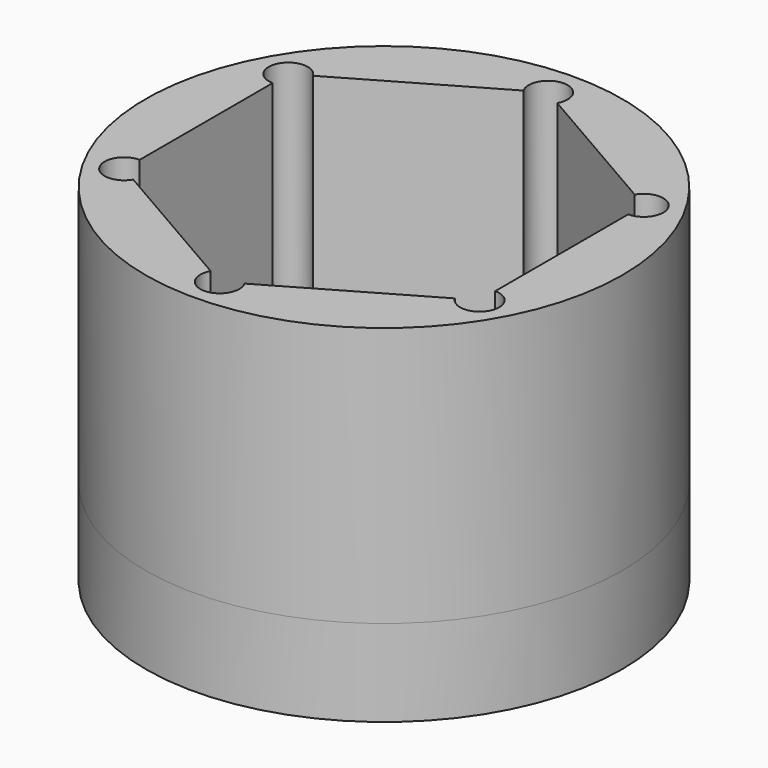
from build123d import *

# Parameters (mm, degrees)
F0_R     = 27.5
F1_DEPTH = 10
F2_DEPTH = 30


with BuildPart() as f1:
    # F0 (on Top) → F1 (new body)
    with BuildSketch(Plane.XY):
        Circle(F0_R)
        with BuildLine():
            ThreePointArc((22.75, 11.8356805184), (22.0909902577, 10.2446902607), (20.5, 9.5856805184))
            Line((20.5, 9.5856805184), (20.5, -9.5856805184))
            ThreePointArc((20.5, -9.5856805184), (22.0909902577, -10.2446902607), (22.75, -11.8356805184))
            ThreePointArc((22.75, -11.8356805184), (21.0823428515, -14.0090136275), (18.5514428415, -12.9606805184))
            Line((18.5514428415, -12.9606805184), (1.9485571585, -22.5463610368))
            ThreePointArc((1.9485571585, -22.5463610368), (2.1733331092, -23.0890181853), (2.25, -23.6713610368))
            ThreePointArc((2.25, -23.6713610368), (-0.5823428515, -25.8446941459), (-1.9485571585, -22.5463610368))
            Line((-1.9485571585, -22.5463610368), (-18.5514428415, -12.9606805184))
            ThreePointArc((-18.5514428415, -12.9606805184), (-22.4485571585, -12.9606805184), (-20.5, -9.5856805184))
            Line((-20.5, -9.5856805184), (-20.5, 9.5856805184))
            ThreePointArc((-20.5, 9.5856805184), (-22.4485571585, 12.9606805184), (-18.5514428415, 12.9606805184))
            Line((-18.5514428415, 12.9606805184), (-1.9485571585, 22.5463610368))
            ThreePointArc((-1.9485571585, 22.5463610368), (-0.5823428515, 25.8446941459), (2.25, 23.6713610368))
            ThreePointArc((2.25, 23.6713610368), (2.1733331092, 23.0890181853), (1.9485571585, 22.5463610368))
            Line((1.9485571585, 22.5463610368), (18.5514428415, 12.9606805184))
            ThreePointArc((18.5514428415, 12.9606805184), (21.0823428515, 14.0090136275), (22.75, 11.8356805184))
        make_face(mode=Mode.SUBTRACT)
        with BuildLine():
            Line((20.5, -9.5856805184), (20.5, 9.5856805184))
            ThreePointArc((20.5, 9.5856805184), (18.5514428415, 10.7106805184), (18.5514428415, 12.9606805184))
            Line((18.5514428415, 12.9606805184), (1.9485571585, 22.5463610368))
            ThreePointArc((1.9485571585, 22.5463610368), (0, 21.4213610368), (-1.9485571585, 22.5463610368))
            Line((-1.9485571585, 22.5463610368), (-18.5514428415, 12.9606805184))
            ThreePointArc((-18.5514428415, 12.9606805184), (-18.3266668908, 12.4180233699), (-18.25, 11.8356805184))
            ThreePointArc((-18.25, 11.8356805184), (-18.9090097423, 10.2446902607), (-20.5, 9.5856805184))
            Line((-20.5, 9.5856805184), (-20.5, -9.5856805184))
            ThreePointArc((-20.5, -9.5856805184), (-18.9090097423, -10.2446902607), (-18.25, -11.8356805184))
            ThreePointArc((-18.25, -11.8356805184), (-18.3266668908, -12.4180233699), (-18.5514428415, -12.9606805184))
            Line((-18.5514428415, -12.9606805184), (-1.9485571585, -22.5463610368))
            ThreePointArc((-1.9485571585, -22.5463610368), (0, -21.4213610368), (1.9485571585, -22.5463610368))
            Line((1.9485571585, -22.5463610368), (18.5514428415, -12.9606805184))
            ThreePointArc((18.5514428415, -12.9606805184), (18.5514428415, -10.7106805184), (20.5, -9.5856805184))
        make_face()
        with BuildLine():
            ThreePointArc((-6.35, 4.85), (-7.4106601718, 7.4106601718), (-4.85, 6.35))
            Line((-4.85, 6.35), (4.85, 6.35))
            ThreePointArc((4.85, 6.35), (6.35, 7.85), (7.85, 6.35))
            ThreePointArc((7.85, 6.35), (7.4106601718, 5.2893398282), (6.35, 4.85))
            Line((6.35, 4.85), (6.35, -4.85))
            ThreePointArc((6.35, -4.85), (7.4106601718, -5.2893398282), (7.85, -6.35))
            ThreePointArc((7.85, -6.35), (6.35, -7.85), (4.85, -6.35))
            Line((4.85, -6.35), (-4.85, -6.35))
            ThreePointArc((-4.85, -6.35), (-7.4106601718, -7.4106601718), (-6.35, -4.85))
            Line((-6.35, -4.85), (-6.35, 4.85))
        make_face(mode=Mode.SUBTRACT)
        with BuildLine():
            Line((-20.5, 11.8356805184), (-18.5514428415, 12.9606805184))
            ThreePointArc((-18.5514428415, 12.9606805184), (-22.4485571585, 12.9606805184), (-20.5, 9.5856805184))
            Line((-20.5, 9.5856805184), (-20.5, 11.8356805184))
        make_face()
        with BuildLine():
            ThreePointArc((-20.5, -9.5856805184), (-22.4485571585, -12.9606805184), (-18.5514428415, -12.9606805184))
            Line((-18.5514428415, -12.9606805184), (-20.5, -11.8356805184))
            Line((-20.5, -11.8356805184), (-20.5, -9.5856805184))
        make_face()
        with BuildLine():
            Line((0, 23.6713610368), (1.9485571585, 22.5463610368))
            ThreePointArc((1.9485571585, 22.5463610368), (2.1733331092, 23.0890181853), (2.25, 23.6713610368))
            ThreePointArc((2.25, 23.6713610368), (-0.5823428515, 25.8446941459), (-1.9485571585, 22.5463610368))
            Line((-1.9485571585, 22.5463610368), (0, 23.6713610368))
        make_face()
        with BuildLine():
            Line((18.5514428415, 12.9606805184), (20.5, 11.8356805184))
            Line((20.5, 11.8356805184), (20.5, 9.5856805184))
            ThreePointArc((20.5, 9.5856805184), (22.0909902577, 10.2446902607), (22.75, 11.8356805184))
            ThreePointArc((22.75, 11.8356805184), (21.0823428515, 14.0090136275), (18.5514428415, 12.9606805184))
        make_face()
        with BuildLine():
            ThreePointArc((22.75, -11.8356805184), (22.0909902577, -10.2446902607), (20.5, -9.5856805184))
            Line((20.5, -9.5856805184), (20.5, -11.8356805184))
            Line((20.5, -11.8356805184), (18.5514428415, -12.9606805184))
            ThreePointArc((18.5514428415, -12.9606805184), (21.0823428515, -14.0090136275), (22.75, -11.8356805184))
        make_face()
        with BuildLine():
            ThreePointArc((2.25, -23.6713610368), (2.1733331092, -23.0890181853), (1.9485571585, -22.5463610368))
            Line((1.9485571585, -22.5463610368), (0, -23.6713610368))
            Line((0, -23.6713610368), (-1.9485571585, -22.5463610368))
            ThreePointArc((-1.9485571585, -22.5463610368), (-0.5823428515, -25.8446941459), (2.25, -23.6713610368))
        make_face()
        with BuildLine():
            Line((-20.5, -11.8356805184), (-18.5514428415, -12.9606805184))
            ThreePointArc((-18.5514428415, -12.9606805184), (-18.3266668908, -12.4180233699), (-18.25, -11.8356805184))
            ThreePointArc((-18.25, -11.8356805184), (-18.9090097423, -10.2446902607), (-20.5, -9.5856805184))
            Line((-20.5, -9.5856805184), (-20.5, -11.8356805184))
        make_face()
        with BuildLine():
            ThreePointArc((-18.25, 11.8356805184), (-18.3266668908, 12.4180233699), (-18.5514428415, 12.9606805184))
            Line((-18.5514428415, 12.9606805184), (-20.5, 11.8356805184))
            Line((-20.5, 11.8356805184), (-20.5, 9.5856805184))
            ThreePointArc((-20.5, 9.5856805184), (-18.9090097423, 10.2446902607), (-18.25, 11.8356805184))
        make_face()
        with BuildLine():
            ThreePointArc((-1.9485571585, 22.5463610368), (0, 21.4213610368), (1.9485571585, 22.5463610368))
            Line((1.9485571585, 22.5463610368), (0, 23.6713610368))
            Line((0, 23.6713610368), (-1.9485571585, 22.5463610368))
        make_face()
        with BuildLine():
            Line((20.5, 9.5856805184), (20.5, 11.8356805184))
            Line((20.5, 11.8356805184), (18.5514428415, 12.9606805184))
            ThreePointArc((18.5514428415, 12.9606805184), (18.5514428415, 10.7106805184), (20.5, 9.5856805184))
        make_face()
        with BuildLine():
            Line((20.5, -11.8356805184), (20.5, -9.5856805184))
            ThreePointArc((20.5, -9.5856805184), (18.5514428415, -10.7106805184), (18.5514428415, -12.9606805184))
            Line((18.5514428415, -12.9606805184), (20.5, -11.8356805184))
        make_face()
        with BuildLine():
            Line((0, -23.6713610368), (1.9485571585, -22.5463610368))
            ThreePointArc((1.9485571585, -22.5463610368), (0, -21.4213610368), (-1.9485571585, -22.5463610368))
            Line((-1.9485571585, -22.5463610368), (0, -23.6713610368))
        make_face()
    extrude(amount=-F1_DEPTH)

    # F0 (on Top) → F2 (join)
    with BuildSketch(Plane.XY):
        Circle(F0_R)
        with BuildLine():
            ThreePointArc((22.75, 11.8356805184), (22.0909902577, 10.2446902607), (20.5, 9.5856805184))
            Line((20.5, 9.5856805184), (20.5, -9.5856805184))
            ThreePointArc((20.5, -9.5856805184), (22.0909902577, -10.2446902607), (22.75, -11.8356805184))
            ThreePointArc((22.75, -11.8356805184), (21.0823428515, -14.0090136275), (18.5514428415, -12.9606805184))
            Line((18.5514428415, -12.9606805184), (1.9485571585, -22.5463610368))
            ThreePointArc((1.9485571585, -22.5463610368), (2.1733331092, -23.0890181853), (2.25, -23.6713610368))
            ThreePointArc((2.25, -23.6713610368), (-0.5823428515, -25.8446941459), (-1.9485571585, -22.5463610368))
            Line((-1.9485571585, -22.5463610368), (-18.5514428415, -12.9606805184))
            ThreePointArc((-18.5514428415, -12.9606805184), (-22.4485571585, -12.9606805184), (-20.5, -9.5856805184))
            Line((-20.5, -9.5856805184), (-20.5, 9.5856805184))
            ThreePointArc((-20.5, 9.5856805184), (-22.4485571585, 12.9606805184), (-18.5514428415, 12.9606805184))
            Line((-18.5514428415, 12.9606805184), (-1.9485571585, 22.5463610368))
            ThreePointArc((-1.9485571585, 22.5463610368), (-0.5823428515, 25.8446941459), (2.25, 23.6713610368))
            ThreePointArc((2.25, 23.6713610368), (2.1733331092, 23.0890181853), (1.9485571585, 22.5463610368))
            Line((1.9485571585, 22.5463610368), (18.5514428415, 12.9606805184))
            ThreePointArc((18.5514428415, 12.9606805184), (21.0823428515, 14.0090136275), (22.75, 11.8356805184))
        make_face(mode=Mode.SUBTRACT)
    extrude(amount=F2_DEPTH)


solid = f1.part
